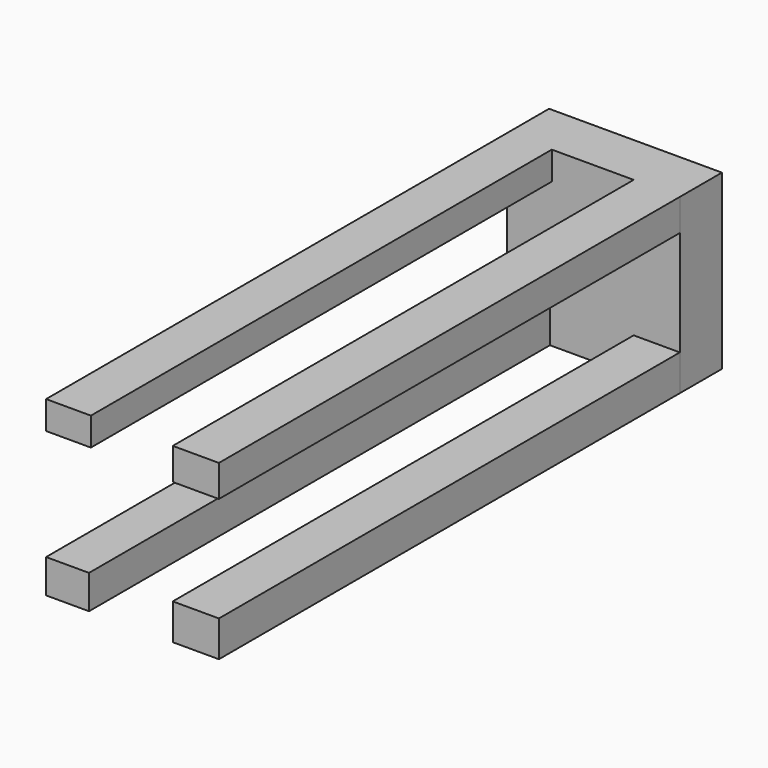
from build123d import *

# Parameters (mm, degrees)
F0_W     = 152.4
F0_H     = 152.4
F1_DEPTH = 46.4
F2_W     = 37.854466
F2_H     = 29.792967
F2_W_2   = 39.513933
F2_H_2   = 24.817034
F2_W_3   = 40.699265
F2_H_3   = 31.689498
F2_H_4   = 28.017434
F3_DEPTH = 508


with BuildPart() as f1:
    # F0 (on Front) → F1 (new body)
    with BuildSketch(Plane.XZ):
        Rectangle(F0_W, F0_H)
    extrude(amount=F1_DEPTH)

    # F2 (on face) → F3 (join)
    with BuildSketch(Plane.XZ.offset(46.4)):
        with Locations((-57.272767, -61.303517)):
            Rectangle(F2_W, F2_H)
        with Locations((-56.443033, 63.791483)):
            Rectangle(F2_W_2, F2_H_2)
        with Locations((55.850368, -60.355251)):
            Rectangle(F2_W_3, F2_H_3)
        with Locations((55.850368, 62.191283)):
            Rectangle(F2_W_3, F2_H_4)
    extrude(amount=F3_DEPTH)


solid = f1.part
